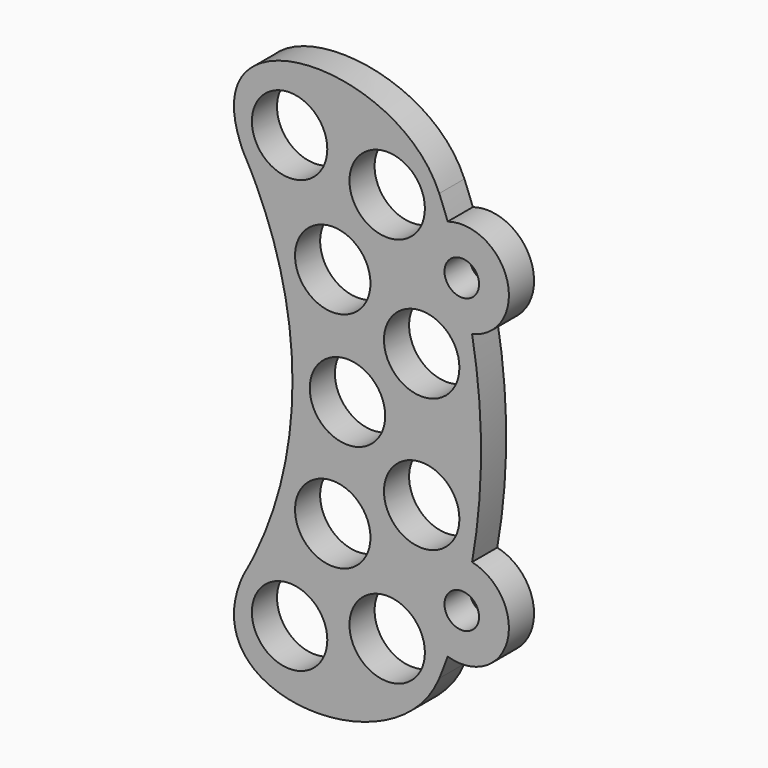
from build123d import *

# Parameters (mm, degrees)
F0_R     = 2.4
F0_R_2   = 1.1
F1_DEPTH = 2


with BuildPart() as f1:
    # F0 (on Front) → F1 (new body)
    with BuildSketch(Plane.XZ):
        with BuildLine():
            add(Edge.make_bspline(
                [(290.98122, -58.124965), (288.358605, -51.728252), (274.934268, -52.104089), (278.522705, -59.875804)],
                knots=[0, 0, 0, 0, 12.580939, 12.580939, 12.580939, 12.580939], degree=3))
            ThreePointArc((278.522705, -59.875804), (278.918466, -60.603233), (279.288896, -61.343882))
            ThreePointArc((279.288896, -61.343882), (281.64184, -71.707518), (279.288896, -82.071155))
            ThreePointArc((279.288896, -82.071155), (278.918466, -82.811804), (278.522705, -83.539233))
            add(Edge.make_bspline(
                [(290.98122, -85.290072), (288.358605, -91.686784), (274.934268, -91.310947), (278.522705, -83.539233)],
                knots=[0, 0, 0, 0, 12.580939, 12.580939, 12.580939, 12.580939], degree=3))
            ThreePointArc((290.98122, -85.290072), (291.257244, -84.591795), (291.518646, -83.887913))
            ThreePointArc((291.518646, -83.887913), (295.312947, -81.801461), (293.070212, -78.097391))
            ThreePointArc((293.070212, -78.097391), (293.64184, -71.707518), (293.070212, -65.317646))
            ThreePointArc((293.070212, -65.317646), (295.312947, -61.613576), (291.518646, -59.527124))
            ThreePointArc((291.518646, -59.527124), (291.257244, -58.823242), (290.98122, -58.124965))
        make_face()
        with Locations((281.457538, -85.457518)):
            Circle(F0_R, mode=Mode.SUBTRACT)
        with Locations((284.2048, -78.825042)):
            Circle(F0_R, mode=Mode.SUBTRACT)
        with Locations((285.14184, -71.707518)):
            Circle(F0_R, mode=Mode.SUBTRACT)
        with Locations((287.667925, -84.14473)):
            Circle(F0_R, mode=Mode.SUBTRACT)
        with Locations((289.863798, -75.94962)):
            Circle(F0_R, mode=Mode.SUBTRACT)
        with Locations((292.41517, -81.025004)):
            Circle(F0_R_2, mode=Mode.SUBTRACT)
        with Locations((284.2048, -64.589995)):
            Circle(F0_R, mode=Mode.SUBTRACT)
        with Locations((281.457538, -57.957518)):
            Circle(F0_R, mode=Mode.SUBTRACT)
        with Locations((289.863798, -67.465417)):
            Circle(F0_R, mode=Mode.SUBTRACT)
        with Locations((292.41517, -62.390033)):
            Circle(F0_R_2, mode=Mode.SUBTRACT)
        with Locations((287.667925, -59.270307)):
            Circle(F0_R, mode=Mode.SUBTRACT)
    extrude(amount=F1_DEPTH)


solid = f1.part
